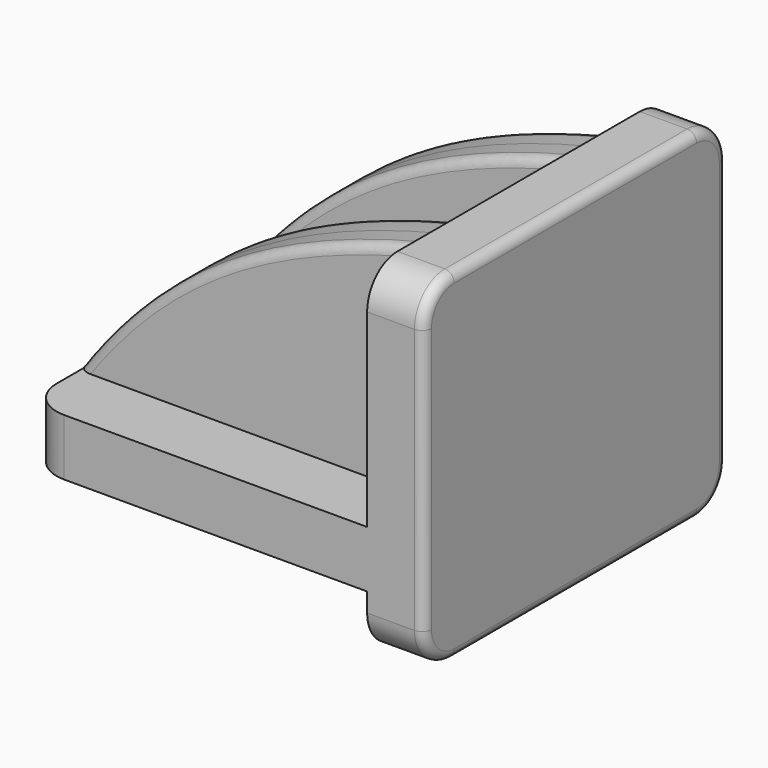
from build123d import *

# Parameters (mm, degrees)
F0_W      = 45.72
F0_H      = 7.62
F1_DEPTH  = 25.4
F2_DEPTH  = 25.4
F3_DEPTH  = 3.81
F4_R      = 5.08
F7_DEPTH  = 3.81
F10_DEPTH = 3.81
F11_R     = 1.27


with BuildPart() as f1:
    # F0 (on Front) → F1 (new body, symmetric)
    with BuildSketch(Plane.XZ):
        with Locations((-3.917041, 3.81)):
            Rectangle(F0_W, F0_H)
    extrude(amount=F1_DEPTH, both=True)

    # F0 (on Front) → F2 (join, symmetric)
    with BuildSketch(Plane.XZ):
        Polygon((26.562959, 38.1), (18.942959, 38.1), (18.942959, 7.62), (18.942959, 0), (18.942959, -7.62), (26.562959, -7.62), align=None)
    extrude(amount=F2_DEPTH, both=True)

    # F0 (on Front) → F3 (join, symmetric)
    with BuildSketch(Plane.XZ):
        with BuildLine():
            Line((18.942959, -7.62), (18.942959, 0))
            Line((18.942959, 0), (-26.777041, 0))
            add(Edge.make_bspline(
                [(-26.777041, 0), (-8.442144, -4.630308), (0.605608, -7.060291), (18.942959, -7.62)],
                knots=[0, 0, 0, 0, 46.35065, 46.35065, 46.35065, 46.35065], degree=3))
        make_face()
    extrude(amount=F3_DEPTH, both=True)

    # F4
    f4_edges = [f1.edges().sort_by_distance(p)[0] for p in [
        (22.752959, -25.4, -7.62),
        (22.752959, 25.4, -7.62),
        (22.752959, 25.4, 38.1),
        (22.752959, -25.4, 38.1),
        (-26.777041, 25.4, 3.81),
        (-26.777041, -25.4, 3.81),
    ]]
    fillet(f4_edges, radius=F4_R)

    # F6 (on offset) → F7 (join, symmetric)
    with BuildSketch(Plane.XZ.offset(12.7)):
        with BuildLine():
            Line((19.504473, 7.642324), (19.504473, 37.258741))
            add(Edge.make_bspline(
                [(19.504473, 37.258741), (-2.269479, 32.051925), (-15.974103, 23.058929), (-26.861079, 7.675159)],
                knots=[0, 0, 0, 0, 54.99957, 54.99957, 54.99957, 54.99957], degree=3))
            Line((-26.861079, 7.675159), (19.504473, 7.642324))
        make_face()
    extrude(amount=F7_DEPTH, both=True)

    # F9 (on offset) → F10 (join, symmetric)
    with BuildSketch(Plane.XZ.offset(-12.7)):
        with BuildLine():
            Line((19.418189, 7.557305), (19.418189, 37.171504))
            add(Edge.make_bspline(
                [(19.418189, 37.171504), (-2.355763, 31.964688), (-16.060385, 22.97391), (-26.947361, 7.590141)],
                knots=[0, 0, 0, 0, 54.998375, 54.998375, 54.998375, 54.998375], degree=3))
            Line((-26.947361, 7.590141), (19.418189, 7.557305))
        make_face()
    extrude(amount=F10_DEPTH, both=True)

    # F11
    f11_edges = [f1.edges().sort_by_distance(p)[0] for p in [
        (26.562959, 25.4, 15.24),
        (26.562959, 23.912102, -6.132102),
        (26.562959, 23.912102, 36.612102),
        (26.562959, 0, -7.62),
        (26.562959, 0, 38.1),
        (26.562959, -23.912102, -6.132102),
        (26.562959, -23.912102, 36.612102),
        (26.562959, -25.4, 15.24),
        (-6.865306, -16.51, 26.848425),
        (-6.865306, -8.89, 26.848425),
        (-6.913699, 16.51, 26.785701),
        (-6.913699, 8.89, 26.785701),
    ]]
    fillet(f11_edges, radius=F11_R)


solid = f1.part
